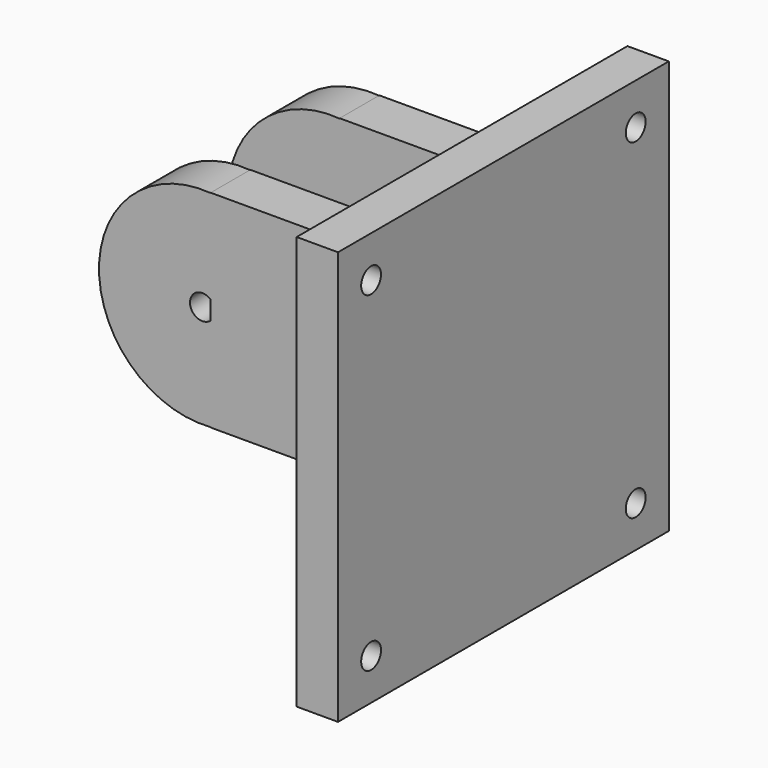
from build123d import *

# Parameters (mm, degrees)
CYLINDER043_R             = 3
CYLINDER043_DEPTH         = 10
CYLINDER042_R             = 3
CYLINDER042_DEPTH         = 10
CYLINDER041_R             = 3
CYLINDER041_DEPTH         = 10
CYLINDER044_R             = 3
CYLINDER044_DEPTH         = 10
CYLINDER019_R             = 3
CYLINDER019_DEPTH         = 12
CYLINDER018_R             = 25
CYLINDER018_DEPTH         = 12
BOX016_W                  = 70
BOX016_H                  = 50
BOX016_DEPTH              = 12
FUSION009_PLACEMENT_ANGLE = 90
BOX017_W                  = 10
BOX017_H                  = 100
BOX017_DEPTH              = 100
CYLINDER017_R             = 3
CYLINDER017_DEPTH         = 12
CYLINDER016_R             = 25
CYLINDER016_DEPTH         = 12
BOX015_W                  = 70
BOX015_H                  = 50
BOX015_DEPTH              = 12
FUSION008_PLACEMENT_ANGLE = 90


with BuildPart() as cilindro030:
    # Cylinder043 → Cylinder043 (new body)
    with BuildSketch(Plane(origin=(117, -31, 25), x_dir=(0, 0, 1), z_dir=(-1, 0, 0))):
        Circle(CYLINDER043_R)
    extrude(amount=CYLINDER043_DEPTH)


with BuildPart() as cilindro029:
    # Cylinder042 → Cylinder042 (new body)
    with BuildSketch(Plane(origin=(117, -111, 25), x_dir=(0, 0, 1), z_dir=(-1, 0, 0))):
        Circle(CYLINDER042_R)
    extrude(amount=CYLINDER042_DEPTH)


with BuildPart() as cilindro028:
    # Cylinder041 → Cylinder041 (new body)
    with BuildSketch(Plane(origin=(117, -31, 105), x_dir=(0, 0, 1), z_dir=(-1, 0, 0))):
        Circle(CYLINDER041_R)
    extrude(amount=CYLINDER041_DEPTH)


with BuildPart() as obj1:
    # Cylinder044 → Cylinder044 (new body)
    with BuildSketch(Plane(origin=(117, -111, 105), x_dir=(0, 0, 1), z_dir=(-1, 0, 0))):
        Circle(CYLINDER044_R)
    extrude(amount=CYLINDER044_DEPTH)

    # Fusion022: union Cilindro030, Cilindro029, Cilindro028
    add(cilindro030.part)
    add(cilindro029.part)
    add(cilindro028.part)


with BuildPart() as cilindro011:
    # Cylinder019 → Cylinder019 (new body)
    with BuildSketch(Plane(origin=(29, -45, -13), x_dir=(1, 0, 0), z_dir=(0, 0, 1))):
        Circle(CYLINDER019_R)
    extrude(amount=CYLINDER019_DEPTH)


with BuildPart() as cut018:
    # Cylinder018 → Cylinder018 (new body)
    with BuildSketch(Plane(origin=(29, -45, -13), x_dir=(1, 0, 0), z_dir=(0, 0, 1))):
        Circle(CYLINDER018_R)
    extrude(amount=CYLINDER018_DEPTH)

    # Cut018: cut Cilindro011
    add(cilindro011.part, mode=Mode.SUBTRACT)


with BuildPart() as lateral001:
    # Box016 → Box016 (new body)
    with BuildSketch(Plane(origin=(31, -70, -13), x_dir=(1, 0, 0), z_dir=(0, 0, 1))):
        with Locations((35, 25)):
            Rectangle(BOX016_W, BOX016_H)
    extrude(amount=BOX016_DEPTH)

    # Fusion009: union Cut018
    add(cut018.part)


with BuildPart() as lateral001_1:
    # Fusion009 placement: moved
    add(lateral001.part.moved(Location((16, -73, 105))).rotate(Axis((16, -73, 105), (1, 0, 0)), FUSION009_PLACEMENT_ANGLE))


with BuildPart() as obj2:
    # Box017 → Box017 (new body)
    with BuildSketch(Plane(origin=(107, -121, 15), x_dir=(1, 0, 0), z_dir=(0, 0, 1))):
        with Locations((5, 50)):
            Rectangle(BOX017_W, BOX017_H)
    extrude(amount=BOX017_DEPTH)


with BuildPart() as cilindro009:
    # Cylinder017 → Cylinder017 (new body)
    with BuildSketch(Plane(origin=(29, -45, -13), x_dir=(1, 0, 0), z_dir=(0, 0, 1))):
        Circle(CYLINDER017_R)
    extrude(amount=CYLINDER017_DEPTH)


with BuildPart() as cut017:
    # Cylinder016 → Cylinder016 (new body)
    with BuildSketch(Plane(origin=(29, -45, -13), x_dir=(1, 0, 0), z_dir=(0, 0, 1))):
        Circle(CYLINDER016_R)
    extrude(amount=CYLINDER016_DEPTH)

    # Cut017: cut Cilindro009
    add(cilindro009.part, mode=Mode.SUBTRACT)


with BuildPart() as cut038:
    # Box015 → Box015 (new body)
    with BuildSketch(Plane(origin=(31, -70, -13), x_dir=(1, 0, 0), z_dir=(0, 0, 1))):
        with Locations((35, 25)):
            Rectangle(BOX015_W, BOX015_H)
    extrude(amount=BOX015_DEPTH)

    # Fusion008: union Cut017
    add(cut017.part)


with BuildPart() as cut038_1:
    # Fusion008 placement: moved
    add(cut038.part.moved(Location((16, -34, 105))).rotate(Axis((16, -34, 105), (1, 0, 0)), FUSION008_PLACEMENT_ANGLE))

    # Fusion020: union lateral001, obj2
    add(lateral001_1.part)
    add(obj2.part)

    # Cut038: cut obj1
    add(obj1.part, mode=Mode.SUBTRACT)


solid = cut038_1.part
